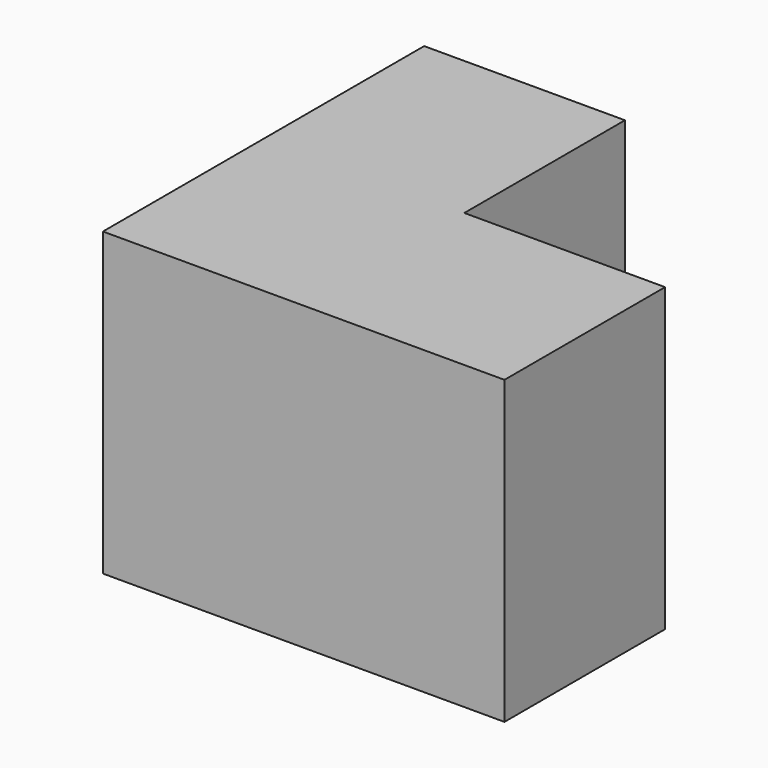
from build123d import *

# Parameters (mm, degrees)
F0_W     = 50.8
F0_H     = 38.1
F1_DEPTH = 25.4
F2_W     = 25.4
F2_H     = 38.1
F3_DEPTH = 25.4


with BuildPart() as f1:
    # F0 (on Front) → F1 (new body)
    with BuildSketch(Plane.XZ):
        Rectangle(F0_W, F0_H)
    extrude(amount=F1_DEPTH)

    # F2 (on face) → F3 (join)
    with BuildSketch(Plane(origin=(0, 0, 0), x_dir=(-1, 0, 0), z_dir=(0, 1, 0))):
        with Locations((12.7, 0)):
            Rectangle(F2_W, F2_H)
    extrude(amount=F3_DEPTH)


solid = f1.part
